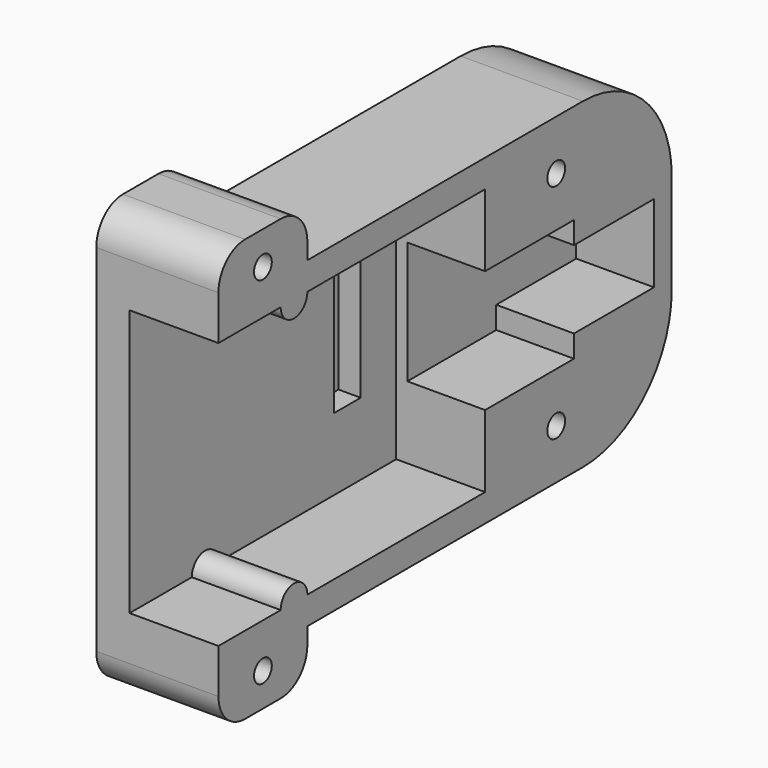
from build123d import *

# Parameters (mm, degrees)
CYLINDER_R        = 1.5
CYLINDER_DEPTH    = 8
CYLINDER002_R     = 1
CYLINDER002_DEPTH = 7
BOX005_W          = 11
BOX005_H          = 10
BOX005_DEPTH      = 6
FILLET001_R       = 3
BOX_W             = 14
BOX_H             = 30
BOX_DEPTH         = 24
BOX003_W          = 11
BOX003_H          = 3
BOX003_DEPTH      = 11
BOX004_W          = 11
BOX004_H          = 9
BOX004_DEPTH      = 7
CYLINDER001_R     = 1
CYLINDER001_DEPTH = 7
BOX002_W          = 11
BOX002_H          = 10
BOX002_DEPTH      = 11
BOX001_W          = 11
BOX001_H          = 51
BOX001_DEPTH      = 29
FILLET_R          = 10


with BuildPart() as side_cylinder:
    # Cylinder → Cylinder (new body)
    with BuildSketch(Plane(origin=(-1, -14.5, 12), x_dir=(0, 0, -1), z_dir=(1, 0, 0))):
        Circle(CYLINDER_R)
    extrude(amount=CYLINDER_DEPTH)


with BuildPart() as part_mirroring:
    # Part__Mirroring: instance of side cylinder
    add(side_cylinder.part.mirror(Plane(origin=(0, 0, 0), x_dir=(0, 1, 0), z_dir=(0, 0, 1))))


with BuildPart() as screw_hole_cylinder001:
    # Cylinder002 → Cylinder002 (new body)
    with BuildSketch(Plane(origin=(0, -18, 16), x_dir=(0, 0, -1), z_dir=(1, 0, 0))):
        Circle(CYLINDER002_R)
    extrude(amount=CYLINDER002_DEPTH)


with BuildPart() as cut001:
    # Box005 → Box005 (new body)
    with BuildSketch(Plane(origin=(-4, -23, 13), x_dir=(1, 0, 0), z_dir=(0, 0, 1))):
        with Locations((5.5, 5)):
            Rectangle(BOX005_W, BOX005_H)
    extrude(amount=BOX005_DEPTH)

    # Fillet001
    fillet001_edges = [cut001.edges().sort_by_distance(p)[0] for p in [
        (1.5, -23, 19),
        (1.5, -13, 19),
    ]]
    fillet(fillet001_edges, radius=FILLET001_R)

    # Cut001: cut screw hole cylinder001
    add(screw_hole_cylinder001.part, mode=Mode.SUBTRACT)


with BuildPart() as part_mirroring002:
    # Part__Mirroring002: instance of Cut001
    add(cut001.part.mirror(Plane(origin=(0, 0, 0), x_dir=(0, 1, 0), z_dir=(0, 0, 1))))


with BuildPart() as extract_cube:
    # Box → Box (new body)
    with BuildSketch(Plane(origin=(-1, -23, -12), x_dir=(1, 0, 0), z_dir=(0, 0, 1))):
        with Locations((7, 15)):
            Rectangle(BOX_W, BOX_H)
    extrude(amount=BOX_DEPTH)


with BuildPart() as pins_extraction_cube:
    # Box003 → Box003 (new body)
    with BuildSketch(Plane(origin=(-3, 0, -5.5), x_dir=(1, 0, 0), z_dir=(0, 0, 1))):
        with Locations((5.5, 1.5)):
            Rectangle(BOX003_W, BOX003_H)
    extrude(amount=BOX003_DEPTH)


with BuildPart() as wire_extract_cube:
    # Box004 → Box004 (new body)
    with BuildSketch(Plane(origin=(0, 17, -3.5), x_dir=(1, 0, 0), z_dir=(0, 0, 1))):
        with Locations((5.5, 4.5)):
            Rectangle(BOX004_W, BOX004_H)
    extrude(amount=BOX004_DEPTH)


with BuildPart() as screw_hole_cylinder:
    # Cylinder001 → Cylinder001 (new body)
    with BuildSketch(Plane(origin=(0, 15, 10), x_dir=(0, 0, -1), z_dir=(1, 0, 0))):
        Circle(CYLINDER001_R)
    extrude(amount=CYLINDER001_DEPTH)


with BuildPart() as part_mirroring001:
    # Part__Mirroring001: instance of screw hole cylinder
    add(screw_hole_cylinder.part.mirror(Plane(origin=(0, 0, 0), x_dir=(0, 1, 0), z_dir=(0, 0, 1))))


with BuildPart() as extract_fusion:
    # Box002 → Box002 (new body)
    with BuildSketch(Plane(origin=(0, 7, -5.5), x_dir=(1, 0, 0), z_dir=(0, 0, 1))):
        with Locations((5.5, 5)):
            Rectangle(BOX002_W, BOX002_H)
    extrude(amount=BOX002_DEPTH)

    # Fusion: union extract cube, pins extraction cube, wire extract cube, Part__Mirroring001, screw hole cylinder
    add(extract_cube.part)
    add(pins_extraction_cube.part)
    add(wire_extract_cube.part)
    add(part_mirroring001.part)
    add(screw_hole_cylinder.part)


with BuildPart() as body_fusion:
    # Box001 → Box001 (new body)
    with BuildSketch(Plane(origin=(-4, -23, -14.5), x_dir=(1, 0, 0), z_dir=(0, 0, 1))):
        with Locations((5.5, 25.5)):
            Rectangle(BOX001_W, BOX001_H)
    extrude(amount=BOX001_DEPTH)

    # Fillet
    fillet_edges = [body_fusion.edges().sort_by_distance(p)[0] for p in [
        (1.5, 28, -14.5),
        (1.5, 28, 14.5),
    ]]
    fillet(fillet_edges, radius=FILLET_R)

    # Cut: cut extract fusion
    add(extract_fusion.part, mode=Mode.SUBTRACT)

    # Fusion001: union Part__Mirroring, side cylinder, Part__Mirroring002, Cut001
    add(part_mirroring.part)
    add(side_cylinder.part)
    add(part_mirroring002.part)
    add(cut001.part)


solid = body_fusion.part
